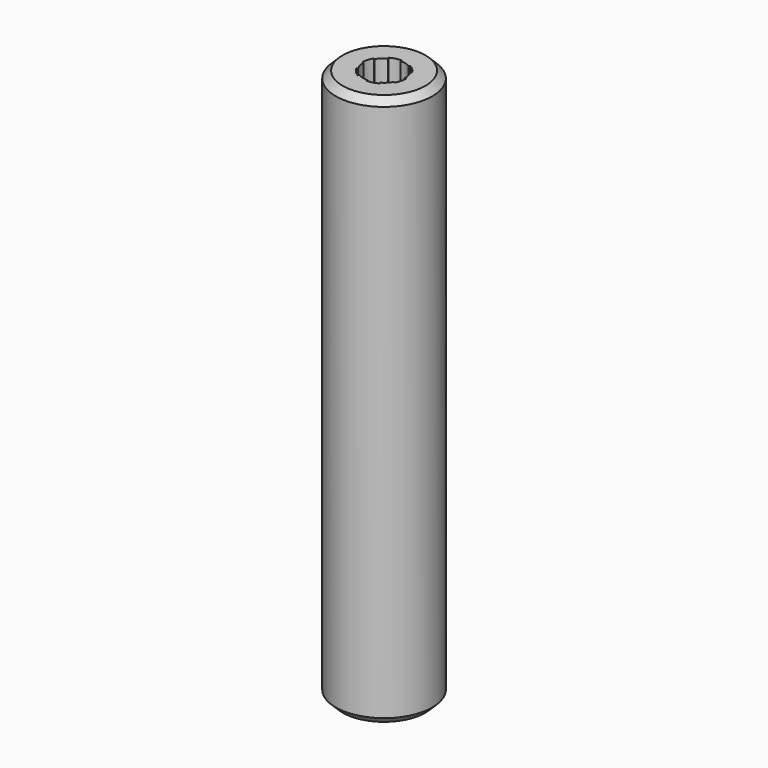
from build123d import *

# Parameters (mm, degrees)
F0_R     = 3.5
F1_DEPTH = 40
F2_SIZE  = 0.5


with BuildPart() as f1:
    # F0 (on Top) → F1 (new body)
    with BuildSketch(Plane.XY):
        Circle(F0_R)
        with BuildLine():
            ThreePointArc((-1.3856406461, 0.8), (-1.1313708499, 1.1313708499), (-0.8, 1.3856406461))
            ThreePointArc((-0.8, 1.3856406461), (-0.4141104722, 1.5454813221), (0, 1.6))
            ThreePointArc((0, 1.6), (0.4141104722, 1.5454813221), (0.8, 1.3856406461))
            ThreePointArc((0.8, 1.3856406461), (1.1313708499, 1.1313708499), (1.3856406461, 0.8))
            ThreePointArc((1.3856406461, 0.8), (1.5454813221, 0.4141104722), (1.6, 0))
            ThreePointArc((1.6, 0), (1.5454813221, -0.4141104722), (1.3856406461, -0.8))
            ThreePointArc((1.3856406461, -0.8), (1.1313708499, -1.1313708499), (0.8, -1.3856406461))
            ThreePointArc((0.8, -1.3856406461), (0.4141104722, -1.5454813221), (0, -1.6))
            ThreePointArc((0, -1.6), (-0.4141104722, -1.5454813221), (-0.8, -1.3856406461))
            ThreePointArc((-0.8, -1.3856406461), (-1.1313708499, -1.1313708499), (-1.3856406461, -0.8))
            ThreePointArc((-1.3856406461, -0.8), (-1.5454813221, -0.4141104722), (-1.6, 0))
            ThreePointArc((-1.6, 0), (-1.5454813221, 0.4141104722), (-1.3856406461, 0.8))
        make_face(mode=Mode.SUBTRACT)
        with BuildLine():
            ThreePointArc((-1.2990381057, 0.75), (-1.0606601718, 1.0606601718), (-0.75, 1.2990381057))
            Line((-0.75, 1.2990381057), (-0.8, 1.3856406461))
            ThreePointArc((-0.8, 1.3856406461), (-1.1313708499, 1.1313708499), (-1.3856406461, 0.8))
            Line((-1.3856406461, 0.8), (-1.2990381057, 0.75))
        make_face()
        with BuildLine():
            Line((-1.5, 0), (-1.6, 0))
            ThreePointArc((-1.6, 0), (-1.5454813221, -0.4141104722), (-1.3856406461, -0.8))
            Line((-1.3856406461, -0.8), (-1.2990381057, -0.75))
            ThreePointArc((-1.2990381057, -0.75), (-1.4488887394, -0.3882285677), (-1.5, 0))
        make_face()
        with BuildLine():
            Line((-0.75, -1.2990381057), (-0.8, -1.3856406461))
            ThreePointArc((-0.8, -1.3856406461), (-0.4141104722, -1.5454813221), (0, -1.6))
            Line((0, -1.6), (0, -1.5))
            ThreePointArc((0, -1.5), (-0.3882285677, -1.4488887394), (-0.75, -1.2990381057))
        make_face()
        with BuildLine():
            ThreePointArc((0.8, -1.3856406461), (1.1313708499, -1.1313708499), (1.3856406461, -0.8))
            Line((1.3856406461, -0.8), (1.2990381057, -0.75))
            ThreePointArc((1.2990381057, -0.75), (1.0606601718, -1.0606601718), (0.75, -1.2990381057))
            Line((0.75, -1.2990381057), (0.8, -1.3856406461))
        make_face()
        with BuildLine():
            ThreePointArc((1.6, 0), (1.5454813221, 0.4141104722), (1.3856406461, 0.8))
            Line((1.3856406461, 0.8), (1.2990381057, 0.75))
            ThreePointArc((1.2990381057, 0.75), (1.4488887394, 0.3882285677), (1.5, 0))
            Line((1.5, 0), (1.6, 0))
        make_face()
        with BuildLine():
            ThreePointArc((0.8, 1.3856406461), (0.4141104722, 1.5454813221), (0, 1.6))
            Line((0, 1.6), (0, 1.5))
            ThreePointArc((0, 1.5), (0.3882285677, 1.4488887394), (0.75, 1.2990381057))
            Line((0.75, 1.2990381057), (0.8, 1.3856406461))
        make_face()
    extrude(amount=F1_DEPTH)

    # F2
    f2_edges = [f1.edges().sort_by_distance(p)[0] for p in [
        (-3.5, 0, 40),
        (-3.5, 0, 0),
    ]]
    chamfer(f2_edges, length=F2_SIZE)


solid = f1.part
